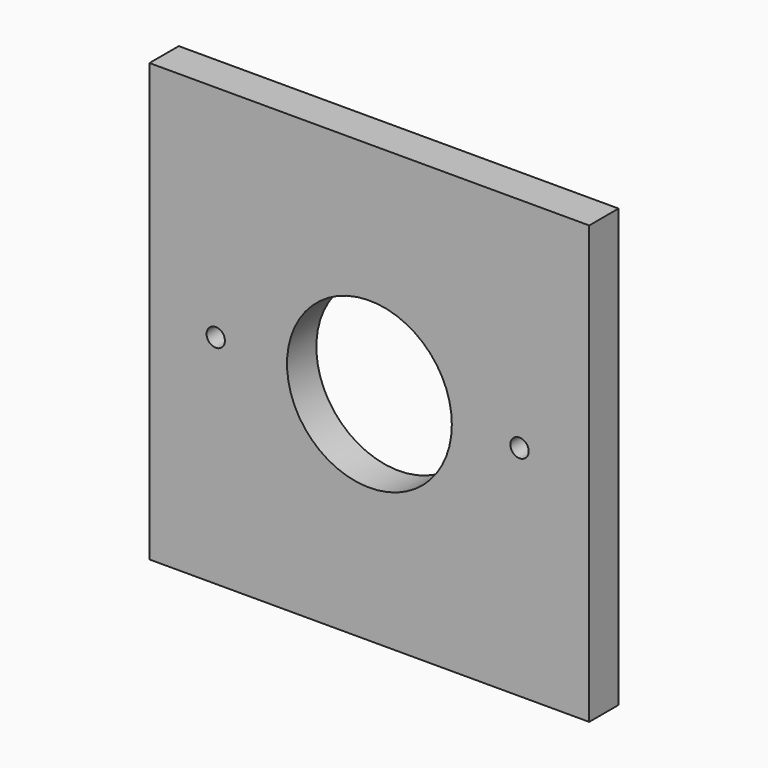
from build123d import *

# Parameters (mm, degrees)
F0_W     = 76.170526
F0_H     = 75.706247
F0_R     = 14.2748
F1_DEPTH = 6.35
F2_R     = 1.5875
F3_DEPTH = 6.35
F4_R     = 1.5875
F5_DEPTH = 6.35


with BuildPart() as f1:
    # F0 (on Front) → F1 (new body)
    with BuildSketch(Plane.XZ):
        with Locations((-0.014737, 0.246877)):
            Rectangle(F0_W, F0_H)
        Circle(F0_R, mode=Mode.SUBTRACT)
    extrude(amount=F1_DEPTH)

    # F2 (on face) → F3 (cut)
    with BuildSketch(Plane.XZ.offset(6.35)):
        with Locations((-26.618414, 0)):
            Circle(F2_R)
    extrude(amount=-F3_DEPTH, mode=Mode.SUBTRACT)

    # F4 (on face) → F5 (cut)
    with BuildSketch(Plane.XZ.offset(6.35)):
        with Locations((25.999378, 0.246877)):
            Circle(F4_R)
    extrude(amount=-F5_DEPTH, mode=Mode.SUBTRACT)


solid = f1.part
